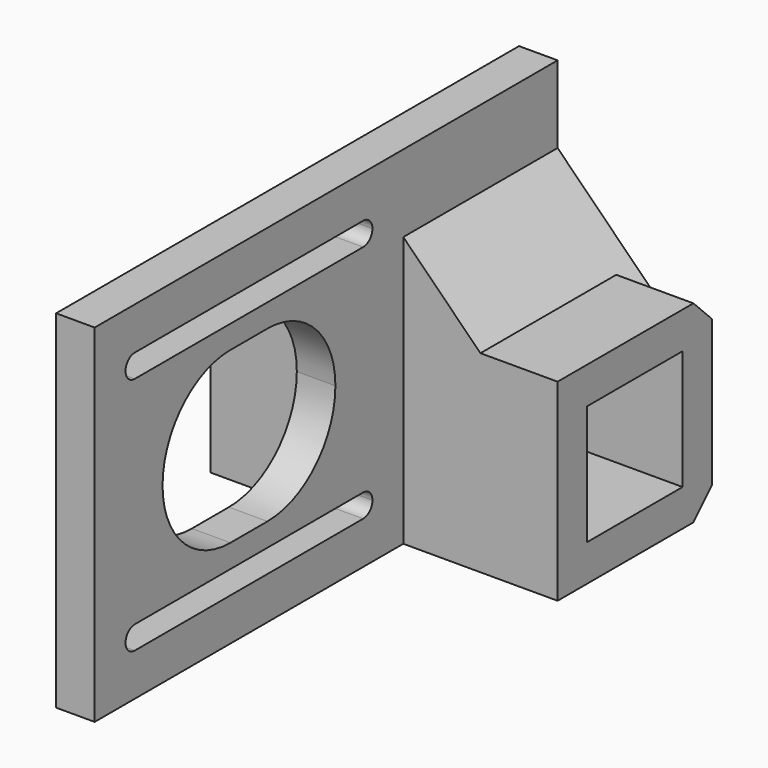
from build123d import *

# Parameters (mm, degrees)
F0_W          = 25
F0_H          = 25
F0_W_2        = 15.5
F0_H_2        = 15.5
F1_DEPTH      = 5
F2_DEPTH      = 25
F2_DEPTH_BACK = 20
F3_SIZE       = 10
F4_SIZE       = 3


with BuildPart() as f1:
    # F0 (on Right) → F1 (new body)
    with BuildSketch(Plane.YZ):
        Polygon((-40.0103315711, 5.9372586757), (-40.0103315711, 30.9372586757), (-15.0103315711, 30.9372586757), (-15.0103315711, 50.9372586757), (-40.0103315711, 50.9372586757), (-90.0103315711, 50.9372586757), (-90.0103315711, 5.9372586757), align=None)
        with BuildLine():
            ThreePointArc((-46.5103315711, 14.4372586757), (-45.4496713993, 13.9979188475), (-45.0103315711, 12.9372586757))
            ThreePointArc((-45.0103315711, 12.9372586757), (-45.4496713993, 11.8765985039), (-46.5103315711, 11.4372586757))
            Line((-46.5103315711, 11.4372586757), (-83.5103315711, 11.4372586757))
            ThreePointArc((-83.5103315711, 11.4372586757), (-85.0103315711, 12.9372586757), (-83.5103315711, 14.4372586757))
            Line((-83.5103315711, 14.4372586757), (-46.5103315711, 14.4372586757))
        make_face(mode=Mode.SUBTRACT)
        with BuildLine():
            ThreePointArc((-62.0103315711, 39.4372586757), (-54.2321569781, 36.2154332687), (-51.0103315711, 28.4372586757))
            ThreePointArc((-51.0103315711, 28.4372586757), (-54.2321569781, 20.6590840826), (-62.0103315711, 17.4372586757))
            Line((-62.0103315711, 17.4372586757), (-68.0103315711, 17.4372586757))
            ThreePointArc((-68.0103315711, 17.4372586757), (-79.0103315711, 28.4372586757), (-68.0103315711, 39.4372586757))
            Line((-68.0103315711, 39.4372586757), (-62.0103315711, 39.4372586757))
        make_face(mode=Mode.SUBTRACT)
        with BuildLine():
            ThreePointArc((-83.5103315711, 42.4372586757), (-85.0103315711, 43.9372586757), (-83.5103315711, 45.4372586757))
            Line((-83.5103315711, 45.4372586757), (-46.5103315711, 45.4372586757))
            ThreePointArc((-46.5103315711, 45.4372586757), (-45.4496713993, 44.9979188475), (-45.0103315711, 43.9372586757))
            ThreePointArc((-45.0103315711, 43.9372586757), (-45.4496713993, 42.8765985039), (-46.5103315711, 42.4372586757))
            Line((-46.5103315711, 42.4372586757), (-83.5103315711, 42.4372586757))
        make_face(mode=Mode.SUBTRACT)
        with Locations((-27.5103315711, 18.4372586757)):
            Rectangle(F0_W, F0_H)
        with Locations((-27.5103315711, 18.4372586757)):
            Rectangle(F0_W_2, F0_H_2, mode=Mode.SUBTRACT)
    extrude(amount=F1_DEPTH)

    # F0 (on Right) → F2 (join, two sides)
    with BuildSketch(Plane.YZ) as f2_sk:
        with Locations((-27.5103315711, 18.4372586757)):
            Rectangle(F0_W, F0_H)
        with Locations((-27.5103315711, 18.4372586757)):
            Rectangle(F0_W_2, F0_H_2, mode=Mode.SUBTRACT)
    extrude(amount=F2_DEPTH)
    extrude(f2_sk.sketch, amount=-F2_DEPTH_BACK)

    # F3
    f3_edges = [f1.edges().sort_by_distance(p)[0] for p in [
        (5, -27.510332, 30.937259),
        (0, -27.510332, 30.937259),
    ]]
    chamfer(f3_edges, length=F3_SIZE)

    # F4
    f4_edges = [f1.edges().sort_by_distance(p)[0] for p in [
        (2.5, -15.010332, 5.937259),
        (-15, -15.010332, 30.937259),
        (20, -15.010332, 30.937259),
    ]]
    chamfer(f4_edges, length=F4_SIZE)


solid = f1.part
